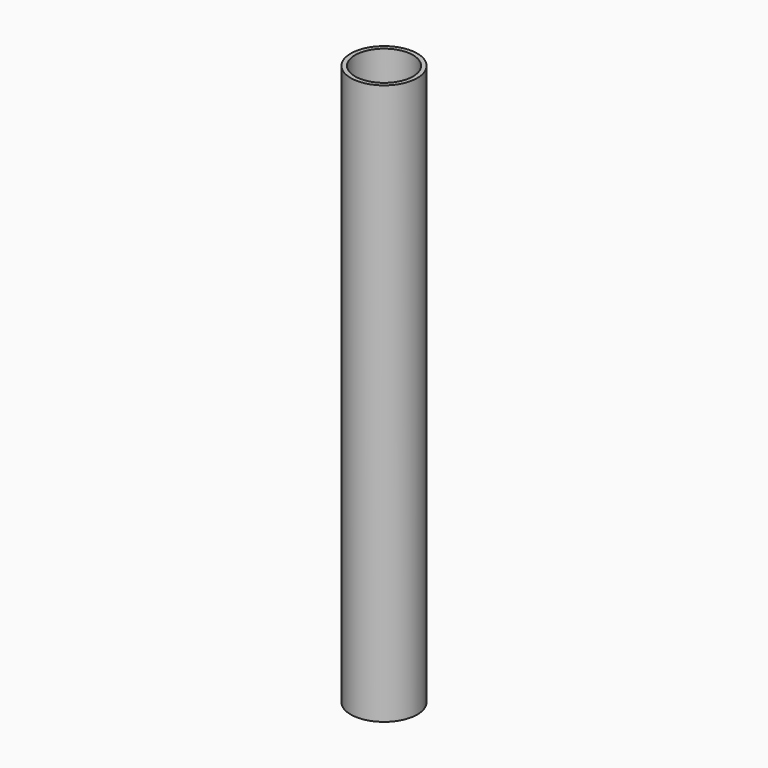
from build123d import *

# Parameters (mm, degrees)
F0_R     = 30.1625
F0_R_2   = 26.2509
F1_DEPTH = 508
F2_R     = 15.24
F4_DEPTH = 106.83089
F3_R     = 15.24
F5_DEPTH = 102.80304


with BuildPart() as f1:
    # F0 (on Top) → F1 (new body)
    with BuildSketch(Plane.XY):
        Circle(F0_R)
        Circle(F0_R_2, mode=Mode.SUBTRACT)
    extrude(amount=F1_DEPTH)

    # F2 (on Front) → F4 (cut)
    with BuildSketch(Plane.XZ):
        with Locations((0, 381)):
            Circle(F2_R)
    extrude(amount=-F4_DEPTH, mode=Mode.SUBTRACT)

    # F3 (on Front) → F5 (cut)
    with BuildSketch(Plane.XZ):
        with Locations((0, 177.8)):
            Circle(F3_R)
    extrude(amount=-F5_DEPTH, mode=Mode.SUBTRACT)


solid = f1.part
